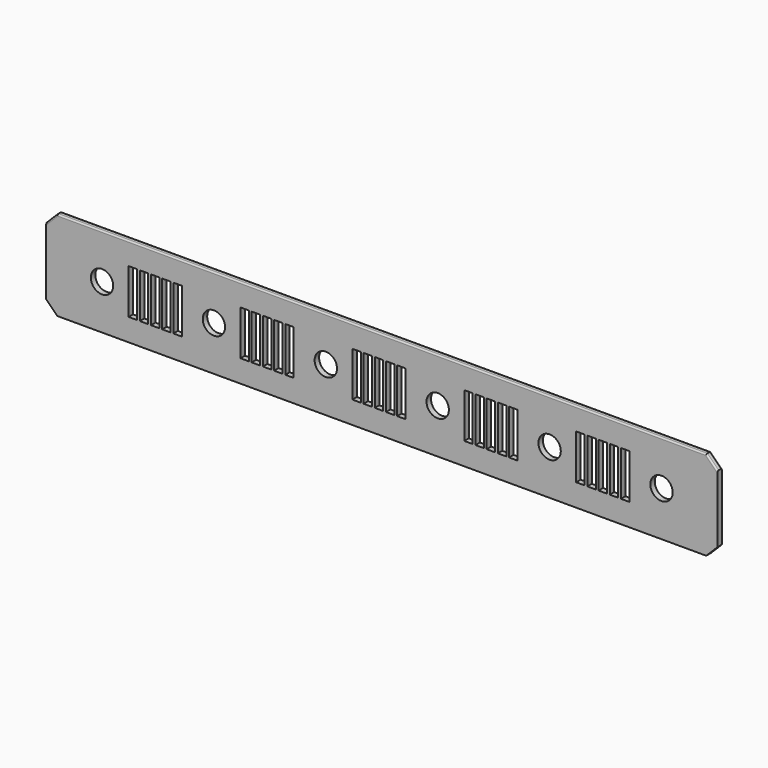
from build123d import *

# Parameters (mm, degrees)
F0_W     = 762
F0_H     = 101.6
F0_R     = 12.7
F1_DEPTH = 6.35
F2_W     = 9.525
F2_H     = 50.8
F3_DEPTH = 6.351
F4_SIZE  = 12.7
F5_R     = 1.6002


with BuildPart() as f1:
    # F0 (on Front) → F1 (new body)
    with BuildSketch(Plane.XZ):
        with Locations((1.7043538392, -88.5701854873)):
            Rectangle(F0_W, F0_H)
        with Locations((-315.7956461608, -88.5701854873)):
            Circle(F0_R, mode=Mode.SUBTRACT)
        with Locations((-188.7956461608, -88.5701854873)):
            Circle(F0_R, mode=Mode.SUBTRACT)
        with Locations((-61.7956461608, -88.5701854873)):
            Circle(F0_R, mode=Mode.SUBTRACT)
        with Locations((65.2043538392, -88.5701854873)):
            Circle(F0_R, mode=Mode.SUBTRACT)
        with Locations((192.2043538392, -88.5701854873)):
            Circle(F0_R, mode=Mode.SUBTRACT)
        with Locations((319.2043538392, -88.5701854873)):
            Circle(F0_R, mode=Mode.SUBTRACT)
    extrude(amount=F1_DEPTH)

    # F2 (on face) → F3 (cut, through all)
    with BuildSketch(Plane.XZ.offset(6.35)):
        with Locations((-280.8579461608, -88.5701854873)):
            Rectangle(F2_W, F2_H)
        with Locations((-268.1579461608, -88.5701854873)):
            Rectangle(F2_W, F2_H)
        with Locations((-255.4579461608, -88.5701854873)):
            Rectangle(F2_W, F2_H)
        with Locations((-242.7579461608, -88.5701854873)):
            Rectangle(F2_W, F2_H)
        with Locations((-230.0579461608, -88.5701854873)):
            Rectangle(F2_W, F2_H)
        with Locations((-26.8579461608, -88.5701854873)):
            Rectangle(F2_W, F2_H)
        with Locations((-14.1579461608, -88.5701854873)):
            Rectangle(F2_W, F2_H)
        with Locations((-1.4579461608, -88.5701854873)):
            Rectangle(F2_W, F2_H)
        with Locations((11.2420538392, -88.5701854873)):
            Rectangle(F2_W, F2_H)
        with Locations((23.9420538392, -88.5701854873)):
            Rectangle(F2_W, F2_H)
        with Locations((100.1420538392, -88.5701854873)):
            Rectangle(F2_W, F2_H)
        with Locations((112.8420538392, -88.5701854873)):
            Rectangle(F2_W, F2_H)
        with Locations((125.5420538392, -88.5701854873)):
            Rectangle(F2_W, F2_H)
        with Locations((138.2420538392, -88.5701854873)):
            Rectangle(F2_W, F2_H)
        with Locations((150.9420538392, -88.5701854873)):
            Rectangle(F2_W, F2_H)
        with Locations((227.1420538392, -88.5701854873)):
            Rectangle(F2_W, F2_H)
        with Locations((239.8420538392, -88.5701854873)):
            Rectangle(F2_W, F2_H)
        with Locations((252.5420538392, -88.5701854873)):
            Rectangle(F2_W, F2_H)
        with Locations((265.2420538392, -88.5701854873)):
            Rectangle(F2_W, F2_H)
        with Locations((277.9420538392, -88.5701854873)):
            Rectangle(F2_W, F2_H)
        with Locations((-153.8579461608, -88.5701854873)):
            Rectangle(F2_W, F2_H)
        with Locations((-141.1579461608, -88.5701854873)):
            Rectangle(F2_W, F2_H)
        with Locations((-128.4579461608, -88.5701854873)):
            Rectangle(F2_W, F2_H)
        with Locations((-115.7579461608, -88.5701854873)):
            Rectangle(F2_W, F2_H)
        with Locations((-103.0579461608, -88.5701854873)):
            Rectangle(F2_W, F2_H)
    extrude(amount=-F3_DEPTH, mode=Mode.SUBTRACT)

    # F4
    f4_edges = [f1.edges().sort_by_distance(p)[0] for p in [
        (-379.295646, -3.175, -37.770185),
        (-379.295646, -3.175, -139.370185),
        (382.704354, -3.175, -37.770185),
        (382.704354, -3.175, -139.370185),
    ]]
    chamfer(f4_edges, length=F4_SIZE)

    # F5
    f5_edges = [f1.edges().sort_by_distance(p)[0] for p in [
        (1.704354, -6.35, -37.770185),
        (1.704354, 0, -37.770185),
        (-372.945646, -6.35, -44.120185),
        (-372.945646, 0, -44.120185),
        (376.354354, 0, -44.120185),
        (376.354354, -6.35, -44.120185),
    ]]
    fillet(f5_edges, radius=F5_R)


solid = f1.part
